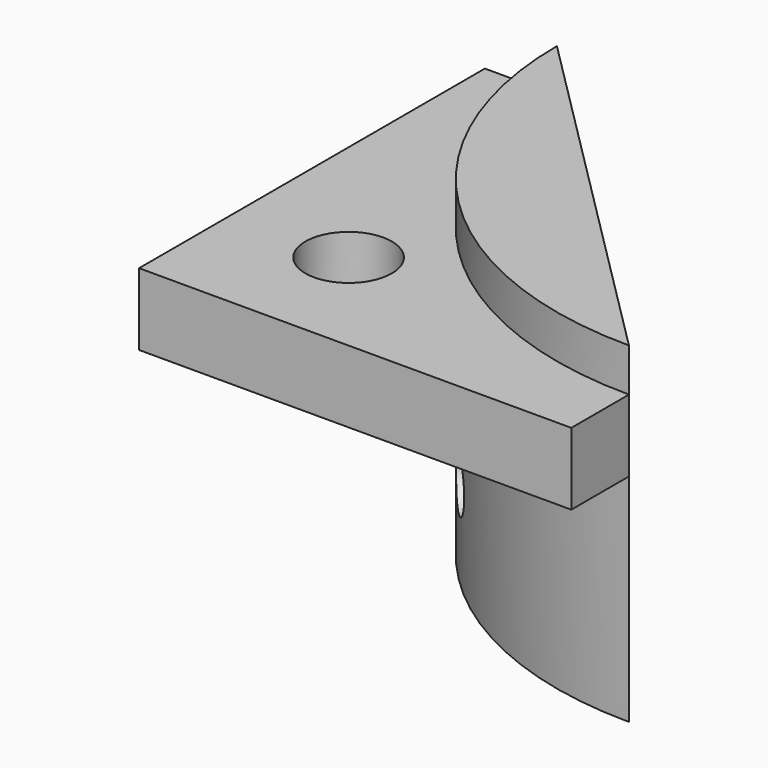
from build123d import *

# Parameters (mm, degrees)
F1_DEPTH      = 8
F1_DEPTH_BACK = 15
F0_R          = 3
F2_DEPTH      = 5
F3_R          = 2
F4_DEPTH      = 25


with BuildPart() as f1:
    # F0 (on Top) → F1 (new body, two sides)
    with BuildSketch(Plane.XY) as f1_sk:
        with BuildLine():
            Line((0, -25), (-25, 0))
            ThreePointArc((-25, 0), (-17.67767, -17.67767), (0, -25))
        make_face()
    extrude(amount=F1_DEPTH)
    extrude(f1_sk.sketch, amount=-F1_DEPTH_BACK)

    # F0 (on Top) → F2 (join)
    with BuildSketch(Plane.XY):
        with BuildLine():
            Line((-25, 0), (-30, 0))
            Line((-30, 0), (-30, -30))
            Line((-30, -30), (0, -30))
            Line((0, -30), (0, -25))
            ThreePointArc((0, -25), (-17.67767, -17.67767), (-25, 0))
        make_face()
        with Locations((-21.9205, -21.92012)):
            Circle(F0_R, mode=Mode.SUBTRACT)
    extrude(amount=F2_DEPTH)

    # F3 (on face) → F4 (cut)
    with BuildSketch(Plane(origin=(-12.5, -12.5, 0), x_dir=(-0.707107, 0.707107, 0), z_dir=(0.707107, 0.707107, 0))):
        with Locations((0, -9)):
            Circle(F3_R)
    extrude(amount=-F4_DEPTH, mode=Mode.SUBTRACT)


solid = f1.part
